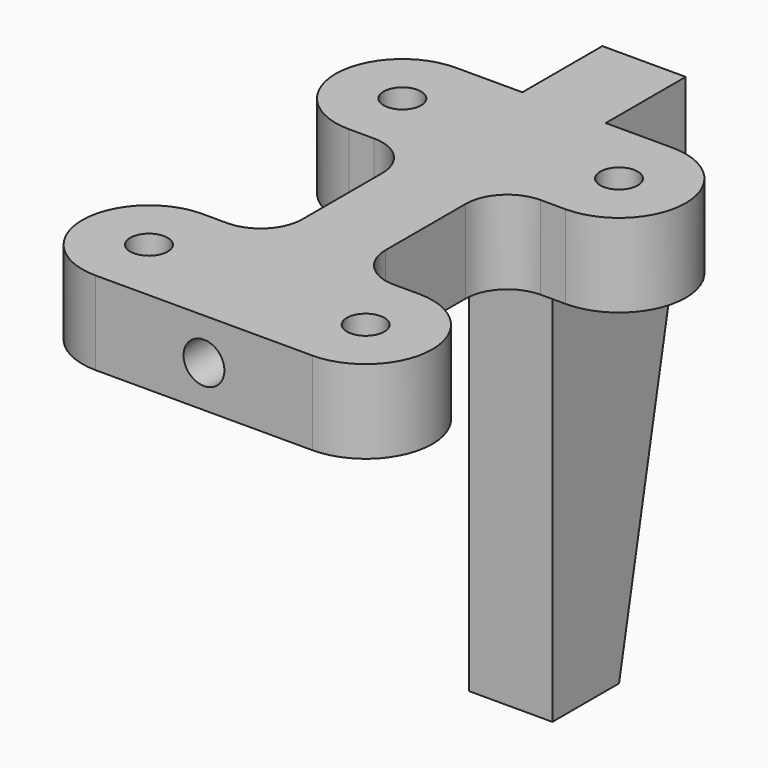
from build123d import *

# Parameters (mm, degrees)
F0_R     = 2.25
F1_DEPTH = 10
F2_W     = 12
F2_H     = 10
F3_DEPTH = 10
F4_R     = 2.45
F5_DEPTH = 25
F6_R     = 4
F7_DEPTH = 4


with BuildPart() as f1:
    # F0 (on Top) → F1 (new body)
    with BuildSketch(Plane.XY):
        with BuildLine():
            Line((13, 8), (0, 8))
            Line((0, 8), (-13, 8))
            ThreePointArc((-13, 8), (-21, 0), (-13, -8))
            Line((-13, -8), (-10, -8))
            ThreePointArc((-10, -8), (-6.464466, -9.464466), (-5, -13))
            Line((-5, -13), (-5, -25))
            ThreePointArc((-5, -25), (-6.464466, -28.535534), (-10, -30))
            Line((-10, -30), (-13, -30))
            ThreePointArc((-13, -30), (-21, -38), (-13, -46))
            Line((-13, -46), (0, -46))
            Line((0, -46), (13, -46))
            ThreePointArc((13, -46), (21, -38), (13, -30))
            Line((13, -30), (10, -30))
            ThreePointArc((10, -30), (6.464466, -28.535534), (5, -25))
            Line((5, -25), (5, -13))
            ThreePointArc((5, -13), (6.464466, -9.464466), (10, -8))
            Line((10, -8), (13, -8))
            ThreePointArc((13, -8), (21, 0), (13, 8))
        make_face()
        with Locations((-13, -38)):
            Circle(F0_R, mode=Mode.SUBTRACT)
        with Locations((13, -38)):
            Circle(F0_R, mode=Mode.SUBTRACT)
        with Locations((-13, 0)):
            Circle(F0_R, mode=Mode.SUBTRACT)
        with Locations((13, 0)):
            Circle(F0_R, mode=Mode.SUBTRACT)
    extrude(amount=F1_DEPTH)

    # F2 (on face) → F3 (join)
    with BuildSketch(Plane.YZ.offset(5)):
        Polygon((8, 0), (0, 0), (0, -50), (10, -50), (20, 0), align=None)
        with Locations((14, 5)):
            Rectangle(F2_W, F2_H)
    extrude(amount=-F3_DEPTH)

    # F4 (on face) → F5 (cut)
    with BuildSketch(Plane.XZ.offset(46)):
        with Locations((0, 5)):
            Circle(F4_R)
    extrude(amount=-F5_DEPTH, mode=Mode.SUBTRACT)

    # F6 (on face) → F7 (cut)
    with BuildSketch(Plane(origin=(0, 0, 0), x_dir=(1, 0, 0), z_dir=(0, 0, -1))):
        with Locations((13, 0)):
            Circle(F6_R)
        with Locations((-13, 0)):
            Circle(F6_R)
        with Locations((-13, 38)):
            Circle(F6_R)
        with Locations((13, 38)):
            Circle(F6_R)
    extrude(amount=-F7_DEPTH, mode=Mode.SUBTRACT)


solid = f1.part
